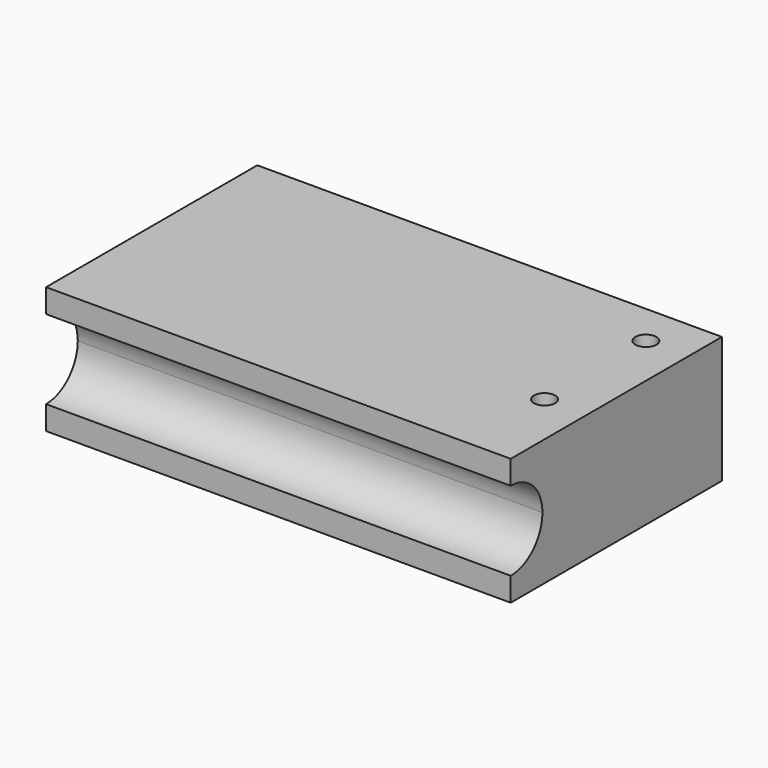
from build123d import *

# Parameters (mm, degrees)
F0_W     = 139.7
F0_H     = 79.375
F0_R     = 3.175
F1_DEPTH = 38.1
F3_DEPTH = 139.701


with BuildPart() as f1:
    # F0 (on Top) → F1 (new body)
    with BuildSketch(Plane.XY):
        Rectangle(F0_W, F0_H)
        with Locations((57.15, -11.1125)):
            Circle(F0_R, mode=Mode.SUBTRACT)
        with Locations((57.15, 26.9875)):
            Circle(F0_R, mode=Mode.SUBTRACT)
    extrude(amount=F1_DEPTH)

    # F2 (on face) → F3 (cut, through all)
    with BuildSketch(Plane.YZ.offset(69.85)):
        with BuildLine():
            ThreePointArc((-39.6875, 7.1374), (-31.26402, 10.62652), (-27.7749, 19.05))
            ThreePointArc((-27.7749, 19.05), (-31.26402, 27.47348), (-39.6875, 30.9626))
            Line((-39.6875, 30.9626), (-39.6875, 7.1374))
        make_face()
    extrude(amount=-F3_DEPTH, mode=Mode.SUBTRACT)


solid = f1.part
